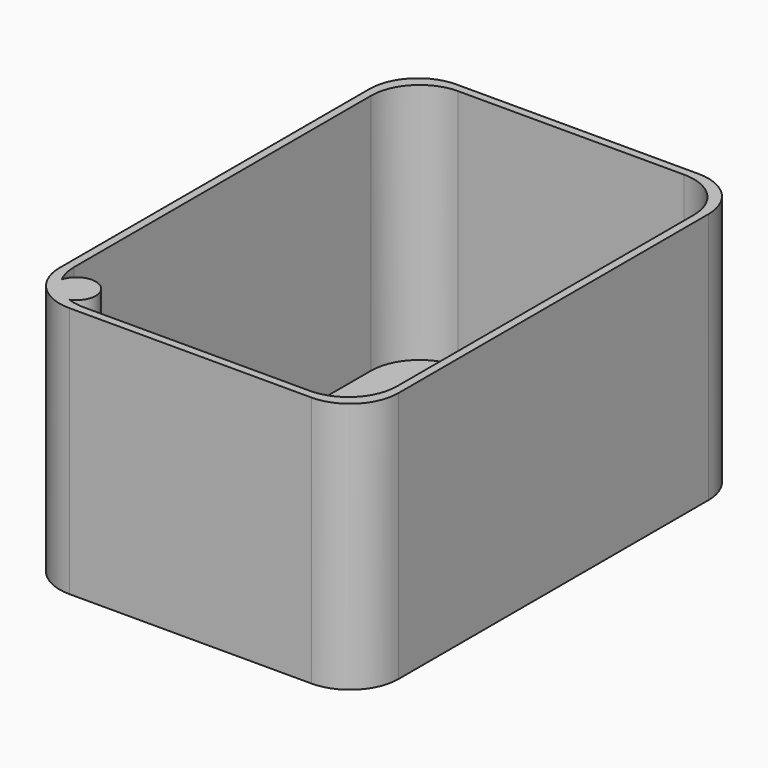
from build123d import *

# Parameters (mm, degrees)
CYLINDER003_R     = 6
CYLINDER003_DEPTH = 27
CYLINDER002_R     = 2.3
CYLINDER002_DEPTH = 3
ARRAY002_X_COUNT  = 2
ARRAY002_X_PITCH  = 31
ARRAY002_Y_COUNT  = 2
ARRAY002_Y_PITCH  = 75.2
CYLINDER001_R     = 1.3
CYLINDER001_DEPTH = 5
ARRAY001_X_COUNT  = 2
ARRAY001_X_PITCH  = 31
ARRAY001_Y_COUNT  = 2
ARRAY001_Y_PITCH  = 75.2
BOX002_W          = 25
BOX002_H          = 71
BOX002_DEPTH      = 10
CYLINDER_R        = 14
CYLINDER_DEPTH    = 10
ARRAY_Y_COUNT     = 4
ARRAY_Y_PITCH     = 36
BOX001_W          = 100
BOX001_H          = 145
BOX001_DEPTH      = 75
BOX_W             = 105
BOX_H             = 150
BOX_DEPTH         = 78
FILLET_R          = 15
FILLET001_R       = 15
CHAMFER001_SIZE   = 1


with BuildPart() as cilindro003:
    # Cylinder003 → Cylinder003 (new body)
    with BuildSketch(Plane(origin=(10, 9, 51), x_dir=(1, 0, 0), z_dir=(0, 0, 1))):
        Circle(CYLINDER003_R)
    extrude(amount=CYLINDER003_DEPTH)


with BuildPart() as array002:
    # Cylinder002 → Cylinder002 (new body)
    with BuildSketch(Plane(origin=(18, 37.5, 3), x_dir=(1, 0, 0), z_dir=(0, 0, 1))):
        Circle(CYLINDER002_R)
    extrude(amount=CYLINDER002_DEPTH)

    # Array002 X: Array002 ×2


with BuildPart() as array002_1:
    add(array002.part)
    with Locations(*[(i * ARRAY002_X_PITCH, 0, 0) for i in range(1, ARRAY002_X_COUNT)]):
        add(array002.part)

    # Array002 Y: Array002 ×2


with BuildPart() as array002_2:
    add(array002_1.part)
    with Locations(*[(0, i * ARRAY002_Y_PITCH, 0) for i in range(1, ARRAY002_Y_COUNT)]):
        add(array002_1.part)


with BuildPart() as fusion:
    # Cylinder001 → Cylinder001 (new body)
    with BuildSketch(Plane(origin=(18, 37.5, 3), x_dir=(1, 0, 0), z_dir=(0, 0, 1))):
        Circle(CYLINDER001_R)
    extrude(amount=CYLINDER001_DEPTH)

    # Array001 X: Fusion ×2


with BuildPart() as fusion_1:
    add(fusion.part)
    with Locations(*[(i * ARRAY001_X_PITCH, 0, 0) for i in range(1, ARRAY001_X_COUNT)]):
        add(fusion.part)

    # Array001 Y: Fusion ×2


with BuildPart() as fusion_2:
    add(fusion_1.part)
    with Locations(*[(0, i * ARRAY001_Y_PITCH, 0) for i in range(1, ARRAY001_Y_COUNT)]):
        add(fusion_1.part)

    # Fusion: union Array002
    add(array002_2.part)


with BuildPart() as cubo002:
    # Box002 → Box002 (new body)
    with BuildSketch(Plane(origin=(20.5, 39.5, -1), x_dir=(1, 0, 0), z_dir=(0, 0, 1))):
        with Locations((12.5, 35.5)):
            Rectangle(BOX002_W, BOX002_H)
    extrude(amount=BOX002_DEPTH)


with BuildPart() as botones:
    # Cylinder → Cylinder (new body)
    with BuildSketch(Plane(origin=(80, 25, 0), x_dir=(1, 0, 0), z_dir=(0, 0, 1))):
        Circle(CYLINDER_R)
    extrude(amount=CYLINDER_DEPTH)

    # Array Y: Botones ×4


with BuildPart() as botones_1:
    add(botones.part)
    with Locations(*[(0, i * ARRAY_Y_PITCH, 0) for i in range(1, ARRAY_Y_COUNT)]):
        add(botones.part)


with BuildPart() as botones_2:
    # Array placement: moved
    add(botones_1.part.moved(Location((0, -4, -2))))


with BuildPart() as cubo001:
    # Box001 → Box001 (new body)
    with BuildSketch(Plane(origin=(2.5, 2.5, 3), x_dir=(1, 0, 0), z_dir=(0, 0, 1))):
        with Locations((50, 72.5)):
            Rectangle(BOX001_W, BOX001_H)
    extrude(amount=BOX001_DEPTH)


with BuildPart() as chamfer001:
    # Box → Box (new body)
    with BuildSketch(Plane.XY):
        with Locations((52.5, 75)):
            Rectangle(BOX_W, BOX_H)
    extrude(amount=BOX_DEPTH)

    # Cut: cut Cubo001
    add(cubo001.part, mode=Mode.SUBTRACT)

    # Cut001: cut Botones
    add(botones_2.part, mode=Mode.SUBTRACT)

    # Cut002: cut Cubo002
    add(cubo002.part, mode=Mode.SUBTRACT)

    # Fillet
    fillet_edges = [chamfer001.edges().sort_by_distance(p)[0] for p in [
        (2.5, 2.5, 40.5),
        (2.5, 147.5, 40.5),
        (102.5, 2.5, 40.5),
        (102.5, 147.5, 40.5),
    ]]
    fillet(fillet_edges, radius=FILLET_R)

    # Fillet001
    fillet001_edges = [chamfer001.edges().sort_by_distance(p)[0] for p in [
        (0, 0, 39),
        (0, 150, 39),
        (105, 150, 39),
        (105, 0, 39),
    ]]
    fillet(fillet001_edges, radius=FILLET001_R)

    # Fusion001: union Fusion
    add(fusion_2.part)

    # Fusion002: union Cilindro003
    add(cilindro003.part)

    # Chamfer001
    chamfer001_edges = [chamfer001.edges().sort_by_distance(p)[0] for p in [
        (7.575675, 6.252432, 51),
    ]]
    chamfer(chamfer001_edges, length=CHAMFER001_SIZE)


solid = chamfer001.part
